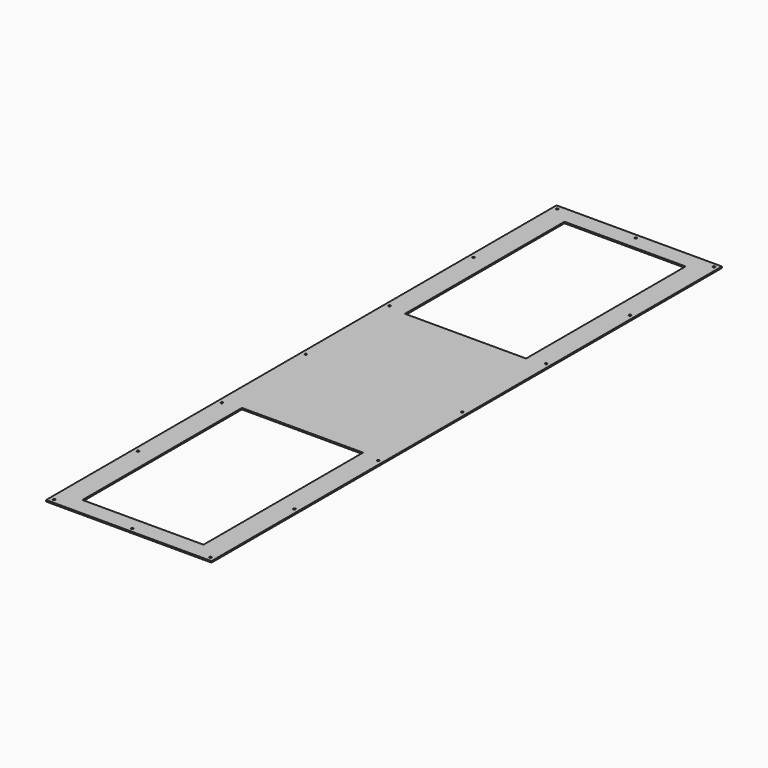
from build123d import *

# Parameters (mm, degrees)
F0_W     = 237.0582
F0_H     = 914.4
F0_R     = 1.575
F0_W_2   = 173.5582
F0_H_2   = 285.75
F1_DEPTH = 2.032


with BuildPart() as f1:
    # F0 (on Top) → F1 (new body)
    with BuildSketch(Plane.XY):
        with Locations((-350.303008, -0.575709)):
            Rectangle(F0_W, F0_H)
        with Locations((-462.482108, -451.425709)):
            Circle(F0_R, mode=Mode.SUBTRACT)
        with Locations((-462.482108, -301.142376)):
            Circle(F0_R, mode=Mode.SUBTRACT)
        with Locations((-462.482108, -150.859042)):
            Circle(F0_R, mode=Mode.SUBTRACT)
        with Locations((-350.303008, -451.425709)):
            Circle(F0_R, mode=Mode.SUBTRACT)
        with Locations((-350.303008, -289.500709)):
            Rectangle(F0_W_2, F0_H_2, mode=Mode.SUBTRACT)
        with Locations((-238.123908, -451.425709)):
            Circle(F0_R, mode=Mode.SUBTRACT)
        with Locations((-238.123908, -301.142376)):
            Circle(F0_R, mode=Mode.SUBTRACT)
        with Locations((-238.123908, -150.859042)):
            Circle(F0_R, mode=Mode.SUBTRACT)
        with Locations((-462.482108, -0.575709)):
            Circle(F0_R, mode=Mode.SUBTRACT)
        with Locations((-462.482108, 149.707624)):
            Circle(F0_R, mode=Mode.SUBTRACT)
        with Locations((-462.482108, 299.990958)):
            Circle(F0_R, mode=Mode.SUBTRACT)
        with Locations((-462.482108, 450.274291)):
            Circle(F0_R, mode=Mode.SUBTRACT)
        with Locations((-238.123908, -0.575709)):
            Circle(F0_R, mode=Mode.SUBTRACT)
        with Locations((-238.123908, 149.707624)):
            Circle(F0_R, mode=Mode.SUBTRACT)
        with Locations((-350.303008, 288.349291)):
            Rectangle(F0_W_2, F0_H_2, mode=Mode.SUBTRACT)
        with Locations((-350.303008, 450.274291)):
            Circle(F0_R, mode=Mode.SUBTRACT)
        with Locations((-238.123908, 299.990958)):
            Circle(F0_R, mode=Mode.SUBTRACT)
        with Locations((-238.123908, 450.274291)):
            Circle(F0_R, mode=Mode.SUBTRACT)
    extrude(amount=F1_DEPTH)


solid = f1.part
